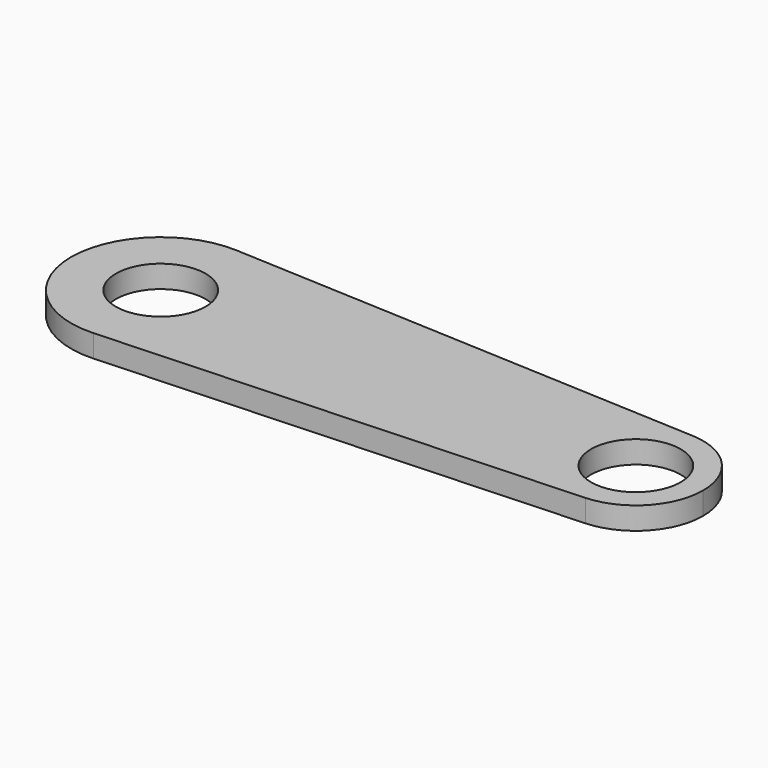
from build123d import *

# Parameters (mm, degrees)
F0_R     = 6.35
F1_DEPTH = 3.175


with BuildPart() as f1:
    # F0 (on Top) → F1 (new body)
    with BuildSketch(Plane.XY):
        with BuildLine():
            ThreePointArc((-47.025943, 12.685863), (-38.435386, 8.765899), (-34.925, 0))
            Line((-34.925, 0), (10.16, 0))
            ThreePointArc((10.16, 0), (13.110576, 6.892211), (20.134292, 9.514398))
            Line((20.134292, 9.514398), (-47.025943, 12.685863))
        make_face()
        with BuildLine():
            Line((10.16, 0), (-34.925, 0))
            ThreePointArc((-34.925, 0), (-38.435386, -8.765899), (-47.025943, -12.685863))
            Line((-47.025943, -12.685863), (20.134292, -9.514398))
            ThreePointArc((20.134292, -9.514398), (13.110576, -6.892211), (10.16, 0))
        make_face()
        with BuildLine():
            ThreePointArc((-47.025943, -12.685863), (-38.435386, -8.765899), (-34.925, 0))
            ThreePointArc((-34.925, 0), (-38.435386, 8.765899), (-47.025943, 12.685863))
            ThreePointArc((-47.025943, 12.685863), (-60.325, 0), (-47.025943, -12.685863))
        make_face()
        with Locations((-47.625, 0)):
            Circle(F0_R, mode=Mode.SUBTRACT)
        with BuildLine():
            ThreePointArc((20.134292, 9.514398), (13.110576, 6.892211), (10.16, 0))
            ThreePointArc((10.16, 0), (13.110576, -6.892211), (20.134292, -9.514398))
            ThreePointArc((20.134292, -9.514398), (26.577211, -6.574424), (29.21, 0))
            ThreePointArc((29.21, 0), (26.577211, 6.574424), (20.134292, 9.514398))
        make_face()
        with BuildLine():
            ThreePointArc((26.035, 0), (19.685, -6.35), (13.335, 0))
            ThreePointArc((13.335, 0), (19.685, 6.35), (26.035, 0))
        make_face(mode=Mode.SUBTRACT)
    extrude(amount=F1_DEPTH)


solid = f1.part
